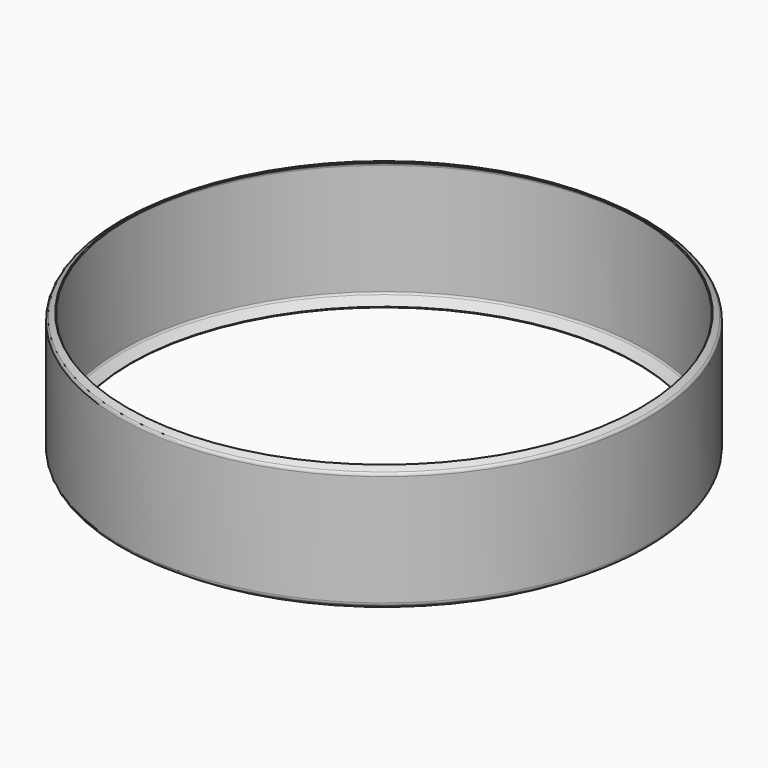
from build123d import *


with BuildPart() as f2:
    # F0 (on Front) → F2 (revolve)
    with BuildSketch(Plane.XZ):
        with BuildLine():
            Line((-322.2752, -73.255214), (-322.2752, -5.104422))
            Line((-322.2752, -5.104422), (-322.2752, 63.046369))
            ThreePointArc((-322.2752, 63.046369), (-321.899517, 64.544518), (-320.861373, 65.688129))
            Line((-320.861373, 65.688129), (-314.164027, 70.153027))
            Line((-314.164027, 70.153027), (-315.037569, 71.463339))
            Line((-315.037569, 71.463339), (-321.72926, 67.002212))
            ThreePointArc((-321.72926, 67.002212), (-323.286475, 65.286796), (-323.85, 63.039573))
            Line((-323.85, 63.039573), (-323.85, 0))
            Line((-323.85, 0), (-323.85, -73.248417))
            ThreePointArc((-323.85, -73.248417), (-323.286475, -75.49564), (-321.72926, -77.211056))
            Line((-321.72926, -77.211056), (-310.790433, -84.503608))
            Line((-310.790433, -84.503608), (-309.916891, -83.193295))
            Line((-309.916891, -83.193295), (-320.861373, -75.896973))
            ThreePointArc((-320.861373, -75.896973), (-321.899517, -74.753363), (-322.2752, -73.255214))
        make_face()
    revolve(axis=Axis((0, 0, 45.9867), (0, 0, 1)))


solid = f2.part
